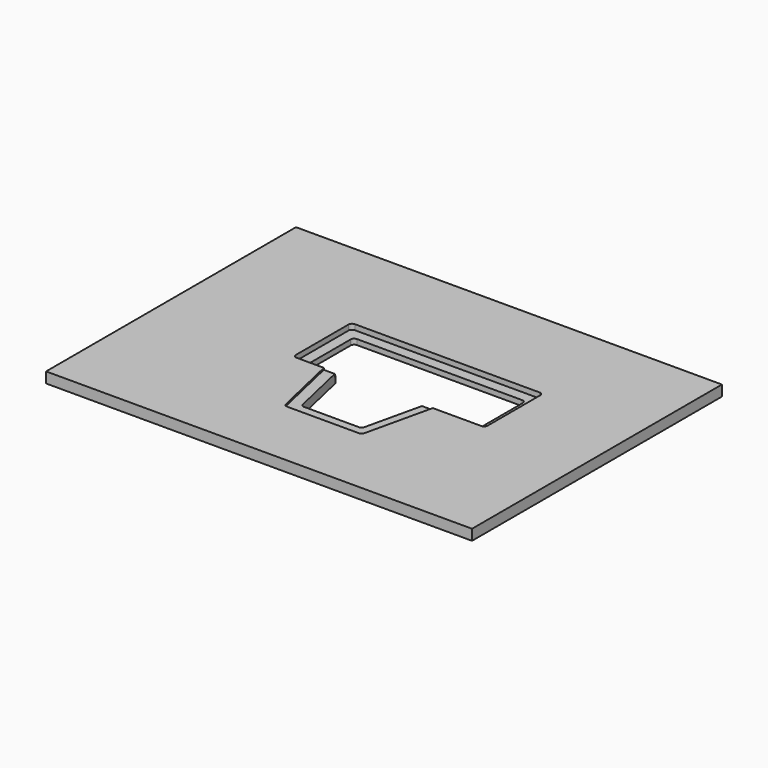
from build123d import *

# Parameters (mm, degrees)
F0_W     = 762
F0_H     = 558.8
F2_DEPTH = 19.05
F3_DEPTH = 25.4
F4_DEPTH = 9.525
F5_DEPTH = 9.525
F6_DEPTH = 9.525
F7_DEPTH = 3.175
F8_R     = 6.35
F9_R     = 6.35


with BuildPart() as f2:
    # F0 (on Top) → F2 (new body)
    with BuildSketch(Plane.XY):
        with Locations((-49.2125, -76.2)):
            Rectangle(F0_W, F0_H)
    extrude(amount=-F2_DEPTH)

    # F1 (on face) → F3 (cut)
    with BuildSketch(Plane.XY):
        Polygon((-115.8875, -98.425), (-114.436071, -104.775), (-90.4875, -209.55), (17.4625, -209.55), (41.411071, -104.775), (42.8625, -98.425), (62.403797, -98.425), (138.1125, -98.425), (138.1125, 6.35), (-169.8625, 6.35), (-169.8625, -98.425), (-135.428797, -98.425), align=None)
        Polygon((-115.8875, -98.425), (-114.436071, -104.775), (-90.4875, -209.55), (17.4625, -209.55), (41.411071, -104.775), (42.8625, -98.425), (62.403797, -98.425), (138.1125, -98.425), (138.1125, 6.35), (-169.8625, 6.35), (-169.8625, -98.425), (-135.428797, -98.425), align=None)
    extrude(amount=-F3_DEPTH, mode=Mode.SUBTRACT)

    # F1 (on face) → F4 (cut)
    with BuildSketch(Plane.XY):
        Polygon((-188.9125, 25.4), (-188.9125, -104.775), (-133.977369, -104.775), (-135.428797, -98.425), (-169.8625, -98.425), (-169.8625, 6.35), (138.1125, 6.35), (138.1125, -98.425), (62.403797, -98.425), (60.952369, -104.775), (153.9875, -104.775), (153.9875, 25.4), align=None)
    extrude(amount=-F4_DEPTH, mode=Mode.SUBTRACT)

    # F1 (on face) → F5 (cut)
    with BuildSketch(Plane.XY):
        Polygon((41.411071, -104.775), (60.952369, -104.775), (62.403797, -98.425), (42.8625, -98.425), align=None)
    extrude(amount=-F5_DEPTH, mode=Mode.SUBTRACT)

    # F1 (on face) → F6 (cut)
    with BuildSketch(Plane.XY):
        Polygon((-135.428797, -98.425), (-133.977369, -104.775), (-114.436071, -104.775), (-115.8875, -98.425), align=None)
    extrude(amount=-F6_DEPTH, mode=Mode.SUBTRACT)

    # F1 (on face) → F7 (cut)
    with BuildSketch(Plane.XY):
        Polygon((-114.436071, -104.775), (-133.977369, -104.775), (-105.674512, -228.6), (32.649512, -228.6), (60.952369, -104.775), (41.411071, -104.775), (17.4625, -209.55), (-90.4875, -209.55), align=None)
    extrude(amount=-F7_DEPTH, mode=Mode.SUBTRACT)

    # F8
    f8_edges = [f2.edges().sort_by_distance(p)[0] for p in [
        (-169.8625, 6.35, -14.2875),
        (-169.8625, -98.425, -14.2875),
        (-115.8875, -98.425, -14.2875),
        (-90.4875, -209.55, -11.1125),
        (17.4625, -209.55, -11.1125),
        (42.8625, -98.425, -14.2875),
        (138.1125, -98.425, -14.2875),
        (138.1125, 6.35, -14.2875),
    ]]
    fillet(f8_edges, radius=F8_R)

    # F9
    f9_edges = [f2.edges().sort_by_distance(p)[0] for p in [
        (-188.9125, 25.4, -4.7625),
        (153.9875, 25.4, -4.7625),
        (153.9875, -104.775, -4.7625),
        (32.649512, -228.6, -1.5875),
        (-105.674512, -228.6, -1.5875),
        (-188.9125, -104.775, -4.7625),
    ]]
    fillet(f9_edges, radius=F9_R)


solid = f2.part
